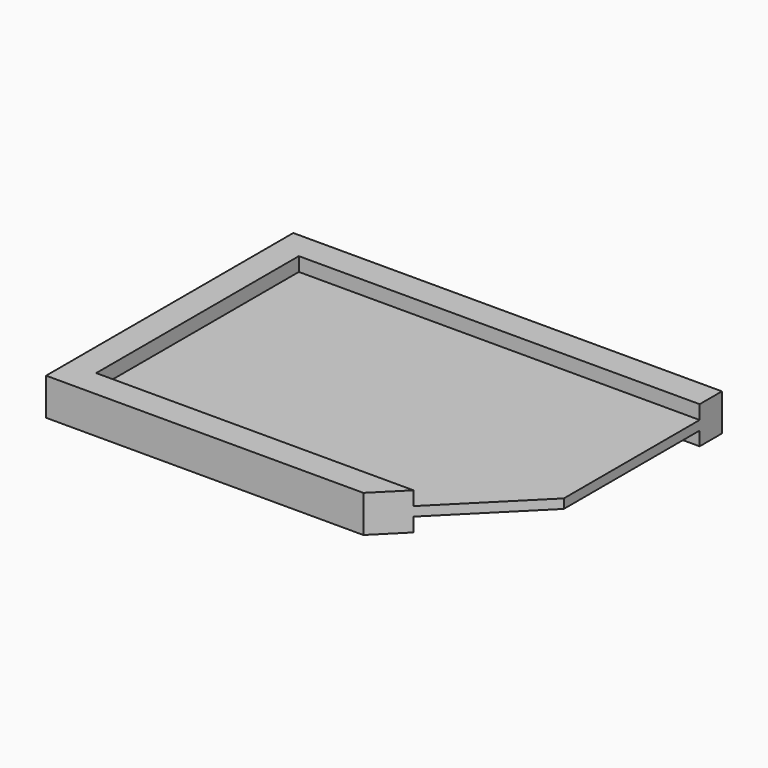
from build123d import *

# Parameters (mm, degrees)
F0_W     = 86.4
F0_H     = 54.6
F1_DEPTH = 8
F2_W     = 86.4
F2_H     = 54.6
F3_DEPTH = 3
F4_W     = 86.4
F4_H     = 54.6
F5_DEPTH = 3
F7_DEPTH = 25


with BuildPart() as f1:
    # F0 (on Top) → F1 (new body)
    with BuildSketch(Plane.XY):
        Polygon((-43.2, -27.3), (-43.2, 27.3), (43.2, 27.3), (43.2, 33.3), (-49.2, 33.3), (-49.2, -33.3), (43.2, -33.3), (43.2, -27.3), align=None)
        Rectangle(F0_W, F0_H)
    extrude(amount=F1_DEPTH)

    # F2 (on face) → F3 (cut)
    with BuildSketch(Plane.XY.offset(8)):
        Rectangle(F2_W, F2_H)
    extrude(amount=-F3_DEPTH, mode=Mode.SUBTRACT)

    # F4 (on face) → F5 (cut)
    with BuildSketch(Plane(origin=(0, 0, 0), x_dir=(1, 0, 0), z_dir=(0, 0, -1))):
        Rectangle(F4_W, F4_H)
    extrude(amount=-F5_DEPTH, mode=Mode.SUBTRACT)

    # F6 (on face) → F7 (cut)
    with BuildSketch(Plane(origin=(0, 0, 0), x_dir=(1, 0, 0), z_dir=(0, 0, -1))):
        Polygon((43.2, 33.3), (19.2, 33.3), (43.2, 9.3), align=None)
    extrude(amount=-F7_DEPTH, mode=Mode.SUBTRACT)


solid = f1.part
